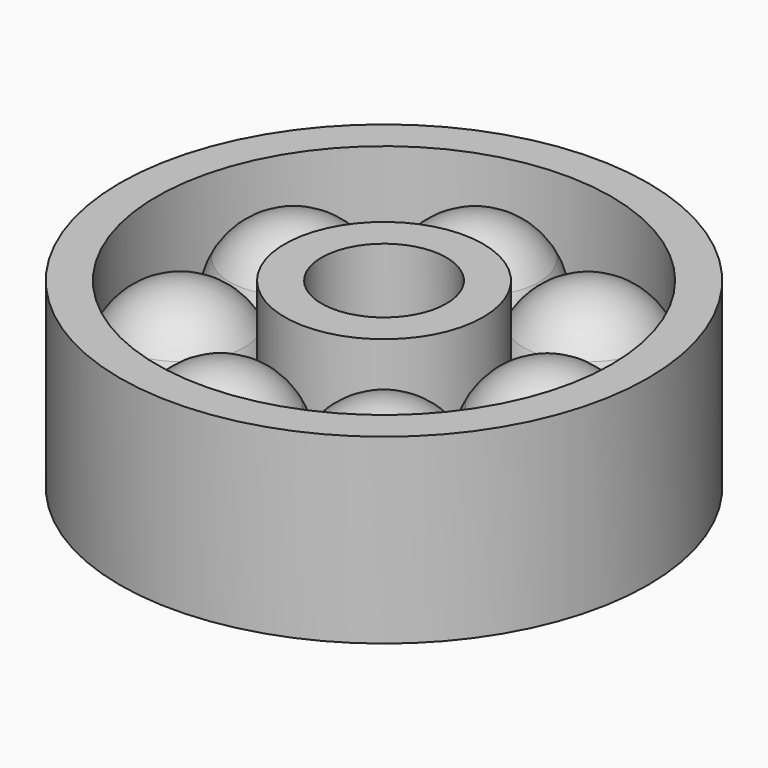
from build123d import *

# Parameters (mm, degrees)
F3_COUNT = 7


with BuildPart() as f1:
    # F0 (on Front) → F1 (revolve)
    with BuildSketch(Plane.XZ):
        with BuildLine():
            Line((81.8076170981, 77.9184084386), (51.4746531844, 77.9184084386))
            Line((51.4746531844, 77.9184084386), (51.4746531844, -72.2933281213))
            Line((51.4746531844, -72.2933281213), (81.8076170981, -72.2933281213))
            Line((81.8076170981, -72.2933281213), (81.8076170981, -30.8876092641))
            ThreePointArc((81.8076170981, -30.8876092641), (73.4442811782, 0), (81.8076170981, 30.8876092641))
            Line((81.8076170981, 30.8876092641), (81.8076170981, 77.9184084386))
        make_face()
        with BuildLine():
            Line((81.8076170981, -30.8876092641), (81.8076170981, 30.8876092641))
            ThreePointArc((81.8076170981, 30.8876092641), (73.4442811782, 0), (81.8076170981, -30.8876092641))
        make_face()
    revolve(axis=Axis((0, 0, 1.0429983959), (0, 0, -1)))


with BuildPart() as f1b:
    # F0 (on Front) → F1, piece 2 (revolve)
    with BuildSketch(Plane.XZ):
        with BuildLine():
            Line((187.5189058483, 77.9184084386), (187.5189058483, 30.8876092641))
            ThreePointArc((187.5189058483, 30.8876092641), (193.7544291712, 15.9999202636), (195.8822417682, 0))
            ThreePointArc((195.8822417682, 0), (193.7544291712, -15.9999202636), (187.5189058483, -30.8876092641))
            Line((187.5189058483, -30.8876092641), (187.5189058483, -72.2933281213))
            Line((187.5189058483, -72.2933281213), (217.8518697619, -72.2933281213))
            Line((217.8518697619, -72.2933281213), (217.8518697619, 77.9184084386))
            Line((217.8518697619, 77.9184084386), (187.5189058483, 77.9184084386))
        make_face()
        with BuildLine():
            ThreePointArc((195.8822417682, 0), (193.7544291712, 15.9999202636), (187.5189058483, 30.8876092641))
            Line((187.5189058483, 30.8876092641), (187.5189058483, -30.8876092641))
            ThreePointArc((187.5189058483, -30.8876092641), (193.7544291712, -15.9999202636), (195.8822417682, 0))
        make_face()
    revolve(axis=Axis((0, 0, 1.0429983959), (0, 0, -1)))


with BuildPart() as f2:
    # F0 (on Front) → F2 (revolve)
    with BuildSketch(Plane.XZ):
        with BuildLine():
            ThreePointArc((134.6632614732, 61.218980295), (104.1931482025, 53.0974175043), (81.8076170981, 30.8876092641))
            Line((81.8076170981, 30.8876092641), (81.8076170981, -30.8876092641))
            ThreePointArc((81.8076170981, -30.8876092641), (104.1931482025, -53.0974175043), (134.6632614732, -61.218980295))
            Line((134.6632614732, -61.218980295), (134.6632614732, 61.218980295))
        make_face()
        with BuildLine():
            Line((81.8076170981, -30.8876092641), (81.8076170981, 30.8876092641))
            ThreePointArc((81.8076170981, 30.8876092641), (73.4442811782, 0), (81.8076170981, -30.8876092641))
        make_face()
    revolve(axis=Axis((134.6632614732, 0, 0), (0, 0, -1)))


with BuildPart() as f3_1:
    # F3: instance of F2
    add(f2.part.rotate(Axis((0, 0, 1.0429983959), (0, 0, -1)), 1 * 360 / F3_COUNT))


with BuildPart() as f3_2:
    # F3: instance of F2
    add(f2.part.rotate(Axis((0, 0, 1.0429983959), (0, 0, -1)), 2 * 360 / F3_COUNT))


with BuildPart() as f3_3:
    # F3: instance of F2
    add(f2.part.rotate(Axis((0, 0, 1.0429983959), (0, 0, -1)), 3 * 360 / F3_COUNT))


with BuildPart() as f3_4:
    # F3: instance of F2
    add(f2.part.rotate(Axis((0, 0, 1.0429983959), (0, 0, -1)), 4 * 360 / F3_COUNT))


with BuildPart() as f3_5:
    # F3: instance of F2
    add(f2.part.rotate(Axis((0, 0, 1.0429983959), (0, 0, -1)), 5 * 360 / F3_COUNT))


with BuildPart() as f3_6:
    # F3: instance of F2
    add(f2.part.rotate(Axis((0, 0, 1.0429983959), (0, 0, -1)), 6 * 360 / F3_COUNT))


solid = Compound([f1.part, f1b.part, f2.part, f3_1.part, f3_2.part, f3_3.part, f3_4.part, f3_5.part, f3_6.part])
